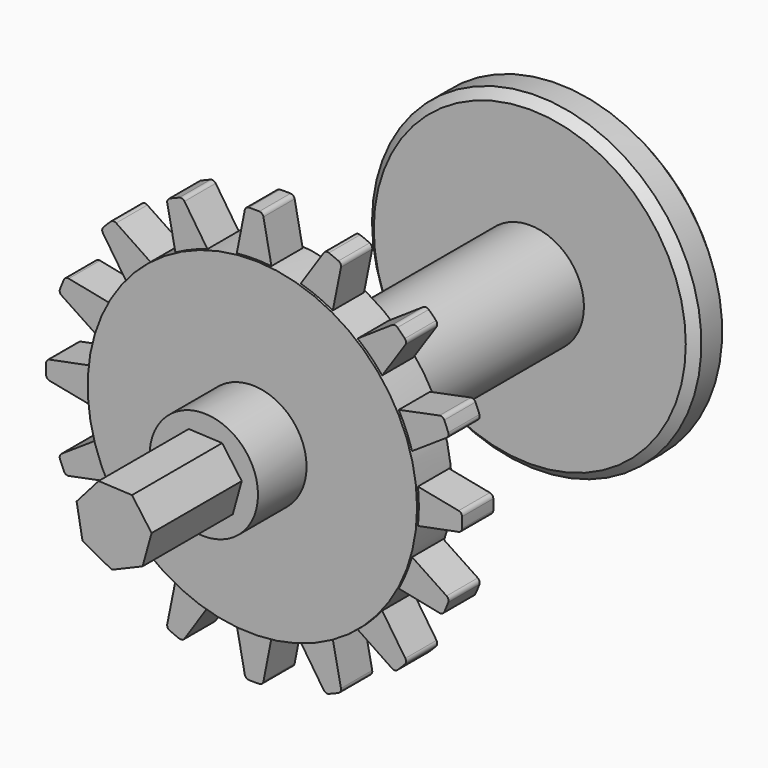
from build123d import *

# Parameters (mm, degrees)
F0_R      = 38
F1_DEPTH  = 10
F4_DEPTH  = 4.5
F5_R      = 1
F6_COUNT  = 16
F7_R      = 12.5
F8_DEPTH  = 98
F9_DEPTH  = 14
F11_DEPTH = 26
F13_R     = 38
F14_DEPTH = 5
F15_SIZE  = 2


with BuildPart() as f1:
    # F0 (on Front) → F1 (new body)
    with BuildSketch(Plane.XZ):
        Circle(F0_R)
    extrude(amount=F1_DEPTH)

    # F3 (on mid) → F4 (join, symmetric)
    with BuildSketch(Plane.XZ.offset(5)):
        with BuildLine():
            Line((-47.9583152331, -2), (-37.7888872554, -4))
            Line((-37.7888872554, -4), (-37.7888872554, 4))
            Line((-37.7888872554, 4), (-47.9583152331, 2))
            ThreePointArc((-47.9583152331, 2), (-48, 0), (-47.9583152331, -2))
        make_face()
    extrude(amount=F4_DEPTH, both=True)

    # F5
    f5_edges = [f1.edges().sort_by_distance(p)[0] for p in [
        (-47.958315, -5, -2),
        (-47.958315, -5, 2),
    ]]
    fillet(f5_edges, radius=F5_R)


with BuildPart() as f6_1:
    # F6: instance of F1
    add(f1.part.rotate(Axis((0, 0, 0), (0, -1, 0)), 1 * 360 / F6_COUNT))


with BuildPart() as f6_2:
    # F6: instance of F1
    add(f1.part.rotate(Axis((0, 0, 0), (0, -1, 0)), 2 * 360 / F6_COUNT))


with BuildPart() as f6_3:
    # F6: instance of F1
    add(f1.part.rotate(Axis((0, 0, 0), (0, -1, 0)), 3 * 360 / F6_COUNT))


with BuildPart() as f6_4:
    # F6: instance of F1
    add(f1.part.rotate(Axis((0, 0, 0), (0, -1, 0)), 4 * 360 / F6_COUNT))


with BuildPart() as f6_5:
    # F6: instance of F1
    add(f1.part.rotate(Axis((0, 0, 0), (0, -1, 0)), 5 * 360 / F6_COUNT))


with BuildPart() as f6_6:
    # F6: instance of F1
    add(f1.part.rotate(Axis((0, 0, 0), (0, -1, 0)), 6 * 360 / F6_COUNT))


with BuildPart() as f6_7:
    # F6: instance of F1
    add(f1.part.rotate(Axis((0, 0, 0), (0, -1, 0)), 7 * 360 / F6_COUNT))


with BuildPart() as f6_8:
    # F6: instance of F1
    add(f1.part.rotate(Axis((0, 0, 0), (0, -1, 0)), 8 * 360 / F6_COUNT))


with BuildPart() as f6_9:
    # F6: instance of F1
    add(f1.part.rotate(Axis((0, 0, 0), (0, -1, 0)), 9 * 360 / F6_COUNT))


with BuildPart() as f6_10:
    # F6: instance of F1
    add(f1.part.rotate(Axis((0, 0, 0), (0, -1, 0)), 10 * 360 / F6_COUNT))


with BuildPart() as f6_11:
    # F6: instance of F1
    add(f1.part.rotate(Axis((0, 0, 0), (0, -1, 0)), 11 * 360 / F6_COUNT))


with BuildPart() as f6_12:
    # F6: instance of F1
    add(f1.part.rotate(Axis((0, 0, 0), (0, -1, 0)), 12 * 360 / F6_COUNT))


with BuildPart() as f6_13:
    # F6: instance of F1
    add(f1.part.rotate(Axis((0, 0, 0), (0, -1, 0)), 13 * 360 / F6_COUNT))


with BuildPart() as f6_14:
    # F6: instance of F1
    add(f1.part.rotate(Axis((0, 0, 0), (0, -1, 0)), 14 * 360 / F6_COUNT))


with BuildPart() as f6_15:
    # F6: instance of F1
    add(f1.part.rotate(Axis((0, 0, 0), (0, -1, 0)), 15 * 360 / F6_COUNT))


with BuildPart() as f8:
    # F7 (on face) → F8 (new body)
    with BuildSketch(Plane.XZ.offset(10)):
        Circle(F7_R)
    extrude(amount=-F8_DEPTH)


with BuildPart() as f9:
    # F9 (new): a face of the model
    f9_faces = [f8.part.faces().sort_by_distance(p)[0] for p in [
        (0, -10, 0),
    ]]
    extrude(f9_faces, amount=F9_DEPTH)

    # F10 (on face) → F11 (join)
    with BuildSketch(Plane.XZ.offset(24)):
        Polygon((8.7402150444, 1.5656130559), (4.2253893698, 7.8095190592), (-3.4712406825, 8.1726979258), (-8.5539557005, 2.3816685616), (-7.1953676071, -5.2028058067), (-0.4185209468, -8.8694612846), (6.6734805227, -5.8572315112), align=None)
    extrude(amount=F11_DEPTH)


with BuildPart() as f1_1:
    add(f1.part)

    add(f6_1.part)  # F14 merges F6_1

    add(f6_2.part)  # F14 merges F6_2

    add(f6_3.part)  # F14 merges F6_3

    add(f6_4.part)  # F14 merges F6_4

    add(f6_5.part)  # F14 merges F6_5

    add(f6_6.part)  # F14 merges F6_6

    add(f6_7.part)  # F14 merges F6_7

    add(f6_8.part)  # F14 merges F6_8

    add(f6_9.part)  # F14 merges F6_9

    add(f6_10.part)  # F14 merges F6_10

    add(f6_11.part)  # F14 merges F6_11

    add(f6_12.part)  # F14 merges F6_12

    add(f6_13.part)  # F14 merges F6_13

    add(f6_14.part)  # F14 merges F6_14

    add(f6_15.part)  # F14 merges F6_15

    add(f8.part)  # F14 merges F8

    add(f9.part)  # F14 merges F9
    # F13 (on offset) → F14 (join, symmetric)
    with BuildSketch(Plane(origin=(0, 75, 0), x_dir=(-1, 0, 0), z_dir=(0, 1, 0))):
        Circle(F13_R)
    extrude(amount=F14_DEPTH, both=True)

    # F15
    f15_edges = [f1_1.edges().sort_by_distance(p)[0] for p in [
        (38, 80, 0),
        (38, 70, 0),
    ]]
    chamfer(f15_edges, length=F15_SIZE)


solid = f1_1.part
